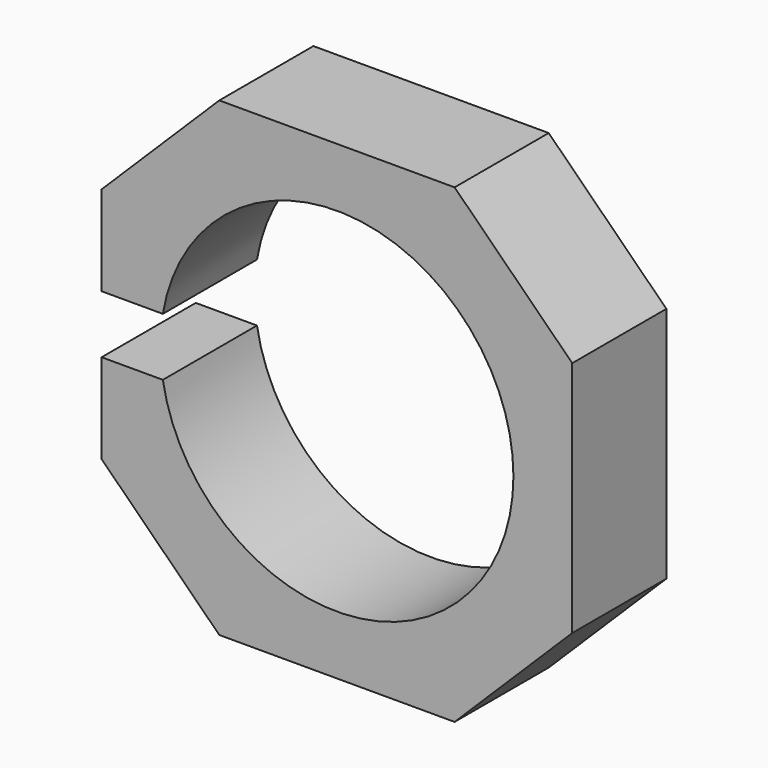
from build123d import *

# Parameters (mm, degrees)
F0_W     = 25.4
F0_H     = 25.4
F1_DEPTH = 6.35
F2_R     = 9.525
F3_DEPTH = 6.35
F5_DEPTH = 6.35
F6_W     = 15.854515
F6_H     = 3.134032
F7_DEPTH = 6.35


with BuildPart() as f1:
    # F0 (on Front) → F1 (new body)
    with BuildSketch(Plane.XZ):
        Rectangle(F0_W, F0_H)
    extrude(amount=-F1_DEPTH)

    # F2 (on face) → F3 (cut)
    with BuildSketch(Plane.XZ):
        Circle(F2_R)
    extrude(amount=-F3_DEPTH, mode=Mode.SUBTRACT)

    # F4 (on Front) → F5 (cut)
    with BuildSketch(Plane.XZ):
        Polygon((12.761054, 6.350294), (12.7, 12.7), (6.35, 12.7), align=None)
        Polygon((-6.35, 12.7), (-12.7, 12.7), (-12.761054, 6.350294), align=None)
        Polygon((-12.761054, -6.350294), (-12.7, -12.7), (-6.35, -12.7), align=None)
        Polygon((6.35, -12.7), (12.7, -12.7), (12.761054, -6.350294), align=None)
    extrude(amount=-F5_DEPTH, mode=Mode.SUBTRACT)

    # F6 (on Front) → F7 (cut)
    with BuildSketch(Plane.XZ):
        with Locations((-14.840564, 0)):
            Rectangle(F6_W, F6_H)
    extrude(amount=-F7_DEPTH, mode=Mode.SUBTRACT)


solid = f1.part
